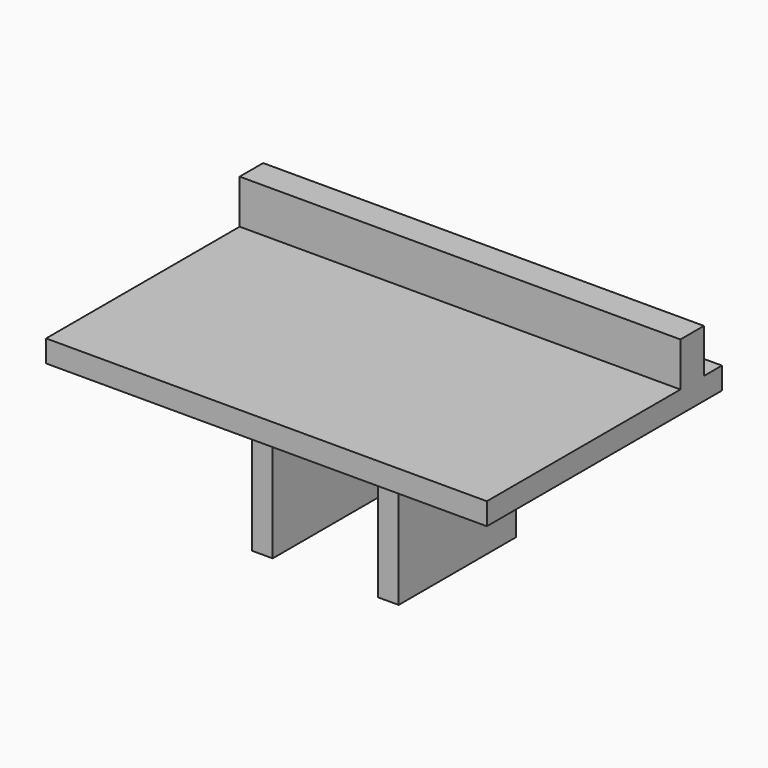
from build123d import *

# Parameters (mm, degrees)
F0_W     = 30
F0_H     = 20
F1_DEPTH = 1.5
F2_W     = 30
F2_H     = 2
F3_DEPTH = 3
F4_W     = 10
F4_H     = 5
F5_DEPTH = 10
F6_W     = 7.152542
F6_H     = 10
F7_DEPTH = 8


with BuildPart() as f1:
    # F0 (on Top) → F1 (new body)
    with BuildSketch(Plane.XY):
        Rectangle(F0_W, F0_H)
    extrude(amount=F1_DEPTH)

    # F2 (on face) → F3 (join)
    with BuildSketch(Plane.XY.offset(1.5)):
        with Locations((0, 7.468739)):
            Rectangle(F2_W, F2_H)
    extrude(amount=F3_DEPTH)

    # F4 (on face) → F5 (join)
    with BuildSketch(Plane(origin=(0, 0, 0), x_dir=(1, 0, 0), z_dir=(0, 0, -1))):
        with Locations((0, 2.5)):
            Rectangle(F4_W, F4_H)
        with Locations((0, -2.5)):
            Rectangle(F4_W, F4_H)
    extrude(amount=F5_DEPTH)

    # F6 (on face) → F7 (cut)
    with BuildSketch(Plane(origin=(0, 0, -10), x_dir=(1, 0, 0), z_dir=(0, 0, -1))):
        Rectangle(F6_W, F6_H)
    extrude(amount=-F7_DEPTH, mode=Mode.SUBTRACT)


solid = f1.part
